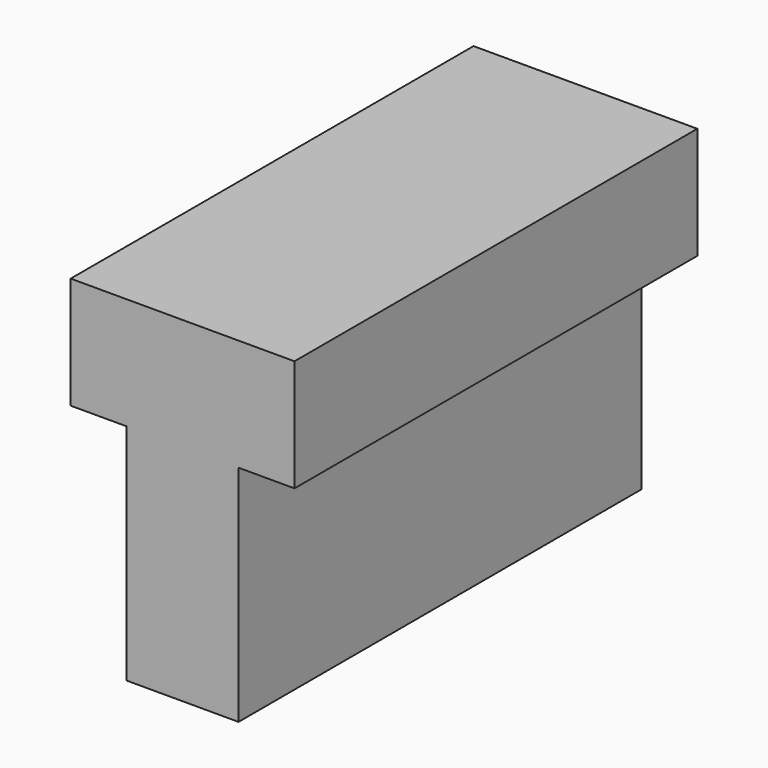
from build123d import *

# Parameters (mm, degrees)
F1_DEPTH = 25.4
F2_DEPTH = 31.75


with BuildPart() as f1:
    # F0 (on Front) → F1 (new body)
    with BuildSketch(Plane.XZ):
        Polygon((6.35, 14.619111), (-19.05, 14.619111), (-19.05, 1.919111), (-12.7, 1.919111), (-12.7, -23.480889), (0, -23.480889), (0, 1.919111), (6.35, 1.919111), align=None)
        Polygon((6.35, 14.619111), (-19.05, 14.619111), (-19.05, 1.919111), (-12.7, 1.919111), (-12.7, -23.480889), (0, -23.480889), (0, 1.919111), (6.35, 1.919111), align=None)
    extrude(amount=F1_DEPTH)

    # F1_face (on face) → F2 (join)
    with BuildSketch(Plane(origin=(-6.35, -25.4, -1.255889), x_dir=(1, 0, 0), z_dir=(0, -1, 0))):
        Polygon((12.7, 3.175), (12.7, 15.875), (-12.7, 15.875), (-12.7, 3.175), (-6.35, 3.175), (-6.35, -22.225), (6.35, -22.225), (6.35, 3.175), align=None)
    extrude(amount=F2_DEPTH)


solid = f1.part
